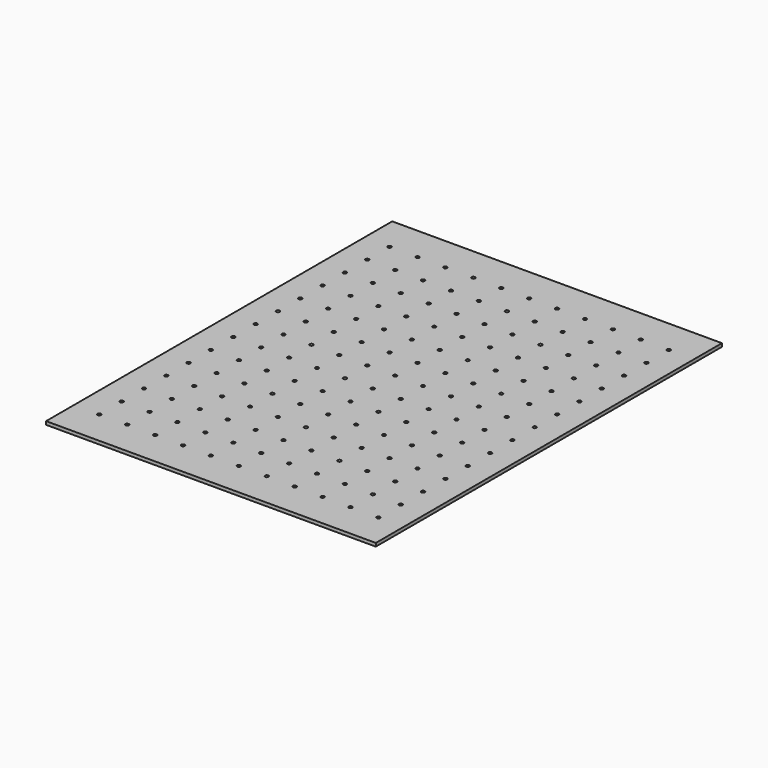
from build123d import *

# Parameters (mm, degrees)
SKETCH_W      = 600.075
SKETCH_H      = 787.4
SKETCH_R      = 3.175
EXTRUDE_DEPTH = 5.9944


with BuildPart() as part:
    # Sketch → Extrude (new body)
    with BuildSketch(Plane.XY):
        with Locations((300.0375, -393.7)):
            Rectangle(SKETCH_W, SKETCH_H)
        with Locations((46.0502, -63.5)):
            Circle(SKETCH_R, mode=Mode.SUBTRACT)
        with Locations((96.8502, -63.5)):
            Circle(SKETCH_R, mode=Mode.SUBTRACT)
        with Locations((147.6502, -63.5)):
            Circle(SKETCH_R, mode=Mode.SUBTRACT)
        with Locations((198.4502, -63.5)):
            Circle(SKETCH_R, mode=Mode.SUBTRACT)
        with Locations((249.2502, -63.5)):
            Circle(SKETCH_R, mode=Mode.SUBTRACT)
        with Locations((300.0502, -63.5)):
            Circle(SKETCH_R, mode=Mode.SUBTRACT)
        with Locations((350.8502, -63.5)):
            Circle(SKETCH_R, mode=Mode.SUBTRACT)
        with Locations((401.6502, -63.5)):
            Circle(SKETCH_R, mode=Mode.SUBTRACT)
        with Locations((452.4502, -63.5)):
            Circle(SKETCH_R, mode=Mode.SUBTRACT)
        with Locations((503.2502, -63.5)):
            Circle(SKETCH_R, mode=Mode.SUBTRACT)
        with Locations((554.0502, -63.5)):
            Circle(SKETCH_R, mode=Mode.SUBTRACT)
        with Locations((46.0502, -114.3)):
            Circle(SKETCH_R, mode=Mode.SUBTRACT)
        with Locations((96.8502, -114.3)):
            Circle(SKETCH_R, mode=Mode.SUBTRACT)
        with Locations((147.6502, -114.3)):
            Circle(SKETCH_R, mode=Mode.SUBTRACT)
        with Locations((198.4502, -114.3)):
            Circle(SKETCH_R, mode=Mode.SUBTRACT)
        with Locations((249.2502, -114.3)):
            Circle(SKETCH_R, mode=Mode.SUBTRACT)
        with Locations((300.0502, -114.3)):
            Circle(SKETCH_R, mode=Mode.SUBTRACT)
        with Locations((350.8502, -114.3)):
            Circle(SKETCH_R, mode=Mode.SUBTRACT)
        with Locations((401.6502, -114.3)):
            Circle(SKETCH_R, mode=Mode.SUBTRACT)
        with Locations((452.4502, -114.3)):
            Circle(SKETCH_R, mode=Mode.SUBTRACT)
        with Locations((503.2502, -114.3)):
            Circle(SKETCH_R, mode=Mode.SUBTRACT)
        with Locations((554.0502, -114.3)):
            Circle(SKETCH_R, mode=Mode.SUBTRACT)
        with Locations((46.0502, -165.1)):
            Circle(SKETCH_R, mode=Mode.SUBTRACT)
        with Locations((96.8502, -165.1)):
            Circle(SKETCH_R, mode=Mode.SUBTRACT)
        with Locations((147.6502, -165.1)):
            Circle(SKETCH_R, mode=Mode.SUBTRACT)
        with Locations((198.4502, -165.1)):
            Circle(SKETCH_R, mode=Mode.SUBTRACT)
        with Locations((249.2502, -165.1)):
            Circle(SKETCH_R, mode=Mode.SUBTRACT)
        with Locations((300.0502, -165.1)):
            Circle(SKETCH_R, mode=Mode.SUBTRACT)
        with Locations((350.8502, -165.1)):
            Circle(SKETCH_R, mode=Mode.SUBTRACT)
        with Locations((401.6502, -165.1)):
            Circle(SKETCH_R, mode=Mode.SUBTRACT)
        with Locations((452.4502, -165.1)):
            Circle(SKETCH_R, mode=Mode.SUBTRACT)
        with Locations((503.2502, -165.1)):
            Circle(SKETCH_R, mode=Mode.SUBTRACT)
        with Locations((554.0502, -165.1)):
            Circle(SKETCH_R, mode=Mode.SUBTRACT)
        with Locations((46.0502, -215.9)):
            Circle(SKETCH_R, mode=Mode.SUBTRACT)
        with Locations((96.8502, -215.9)):
            Circle(SKETCH_R, mode=Mode.SUBTRACT)
        with Locations((147.6502, -215.9)):
            Circle(SKETCH_R, mode=Mode.SUBTRACT)
        with Locations((198.4502, -215.9)):
            Circle(SKETCH_R, mode=Mode.SUBTRACT)
        with Locations((249.2502, -215.9)):
            Circle(SKETCH_R, mode=Mode.SUBTRACT)
        with Locations((300.0502, -215.9)):
            Circle(SKETCH_R, mode=Mode.SUBTRACT)
        with Locations((350.8502, -215.9)):
            Circle(SKETCH_R, mode=Mode.SUBTRACT)
        with Locations((401.6502, -215.9)):
            Circle(SKETCH_R, mode=Mode.SUBTRACT)
        with Locations((452.4502, -215.9)):
            Circle(SKETCH_R, mode=Mode.SUBTRACT)
        with Locations((503.2502, -215.9)):
            Circle(SKETCH_R, mode=Mode.SUBTRACT)
        with Locations((554.0502, -215.9)):
            Circle(SKETCH_R, mode=Mode.SUBTRACT)
        with Locations((46.0502, -266.7)):
            Circle(SKETCH_R, mode=Mode.SUBTRACT)
        with Locations((96.8502, -266.7)):
            Circle(SKETCH_R, mode=Mode.SUBTRACT)
        with Locations((147.6502, -266.7)):
            Circle(SKETCH_R, mode=Mode.SUBTRACT)
        with Locations((198.4502, -266.7)):
            Circle(SKETCH_R, mode=Mode.SUBTRACT)
        with Locations((249.2502, -266.7)):
            Circle(SKETCH_R, mode=Mode.SUBTRACT)
        with Locations((300.0502, -266.7)):
            Circle(SKETCH_R, mode=Mode.SUBTRACT)
        with Locations((350.8502, -266.7)):
            Circle(SKETCH_R, mode=Mode.SUBTRACT)
        with Locations((401.6502, -266.7)):
            Circle(SKETCH_R, mode=Mode.SUBTRACT)
        with Locations((452.4502, -266.7)):
            Circle(SKETCH_R, mode=Mode.SUBTRACT)
        with Locations((503.2502, -266.7)):
            Circle(SKETCH_R, mode=Mode.SUBTRACT)
        with Locations((554.0502, -266.7)):
            Circle(SKETCH_R, mode=Mode.SUBTRACT)
        with Locations((46.0502, -317.5)):
            Circle(SKETCH_R, mode=Mode.SUBTRACT)
        with Locations((96.8502, -317.5)):
            Circle(SKETCH_R, mode=Mode.SUBTRACT)
        with Locations((147.6502, -317.5)):
            Circle(SKETCH_R, mode=Mode.SUBTRACT)
        with Locations((198.4502, -317.5)):
            Circle(SKETCH_R, mode=Mode.SUBTRACT)
        with Locations((249.2502, -317.5)):
            Circle(SKETCH_R, mode=Mode.SUBTRACT)
        with Locations((300.0502, -317.5)):
            Circle(SKETCH_R, mode=Mode.SUBTRACT)
        with Locations((350.8502, -317.5)):
            Circle(SKETCH_R, mode=Mode.SUBTRACT)
        with Locations((401.6502, -317.5)):
            Circle(SKETCH_R, mode=Mode.SUBTRACT)
        with Locations((452.4502, -317.5)):
            Circle(SKETCH_R, mode=Mode.SUBTRACT)
        with Locations((503.2502, -317.5)):
            Circle(SKETCH_R, mode=Mode.SUBTRACT)
        with Locations((554.0502, -317.5)):
            Circle(SKETCH_R, mode=Mode.SUBTRACT)
        with Locations((46.0502, -368.3)):
            Circle(SKETCH_R, mode=Mode.SUBTRACT)
        with Locations((96.8502, -368.3)):
            Circle(SKETCH_R, mode=Mode.SUBTRACT)
        with Locations((147.6502, -368.3)):
            Circle(SKETCH_R, mode=Mode.SUBTRACT)
        with Locations((198.4502, -368.3)):
            Circle(SKETCH_R, mode=Mode.SUBTRACT)
        with Locations((249.2502, -368.3)):
            Circle(SKETCH_R, mode=Mode.SUBTRACT)
        with Locations((300.0502, -368.3)):
            Circle(SKETCH_R, mode=Mode.SUBTRACT)
        with Locations((350.8502, -368.3)):
            Circle(SKETCH_R, mode=Mode.SUBTRACT)
        with Locations((401.6502, -368.3)):
            Circle(SKETCH_R, mode=Mode.SUBTRACT)
        with Locations((452.4502, -368.3)):
            Circle(SKETCH_R, mode=Mode.SUBTRACT)
        with Locations((503.2502, -368.3)):
            Circle(SKETCH_R, mode=Mode.SUBTRACT)
        with Locations((554.0502, -368.3)):
            Circle(SKETCH_R, mode=Mode.SUBTRACT)
        with Locations((46.0502, -419.1)):
            Circle(SKETCH_R, mode=Mode.SUBTRACT)
        with Locations((96.8502, -419.1)):
            Circle(SKETCH_R, mode=Mode.SUBTRACT)
        with Locations((147.6502, -419.1)):
            Circle(SKETCH_R, mode=Mode.SUBTRACT)
        with Locations((198.4502, -419.1)):
            Circle(SKETCH_R, mode=Mode.SUBTRACT)
        with Locations((249.2502, -419.1)):
            Circle(SKETCH_R, mode=Mode.SUBTRACT)
        with Locations((300.0502, -419.1)):
            Circle(SKETCH_R, mode=Mode.SUBTRACT)
        with Locations((350.8502, -419.1)):
            Circle(SKETCH_R, mode=Mode.SUBTRACT)
        with Locations((401.6502, -419.1)):
            Circle(SKETCH_R, mode=Mode.SUBTRACT)
        with Locations((452.4502, -419.1)):
            Circle(SKETCH_R, mode=Mode.SUBTRACT)
        with Locations((503.2502, -419.1)):
            Circle(SKETCH_R, mode=Mode.SUBTRACT)
        with Locations((554.0502, -419.1)):
            Circle(SKETCH_R, mode=Mode.SUBTRACT)
        with Locations((46.0502, -469.9)):
            Circle(SKETCH_R, mode=Mode.SUBTRACT)
        with Locations((96.8502, -469.9)):
            Circle(SKETCH_R, mode=Mode.SUBTRACT)
        with Locations((147.6502, -469.9)):
            Circle(SKETCH_R, mode=Mode.SUBTRACT)
        with Locations((198.4502, -469.9)):
            Circle(SKETCH_R, mode=Mode.SUBTRACT)
        with Locations((249.2502, -469.9)):
            Circle(SKETCH_R, mode=Mode.SUBTRACT)
        with Locations((300.0502, -469.9)):
            Circle(SKETCH_R, mode=Mode.SUBTRACT)
        with Locations((350.8502, -469.9)):
            Circle(SKETCH_R, mode=Mode.SUBTRACT)
        with Locations((401.6502, -469.9)):
            Circle(SKETCH_R, mode=Mode.SUBTRACT)
        with Locations((452.4502, -469.9)):
            Circle(SKETCH_R, mode=Mode.SUBTRACT)
        with Locations((503.2502, -469.9)):
            Circle(SKETCH_R, mode=Mode.SUBTRACT)
        with Locations((554.0502, -469.9)):
            Circle(SKETCH_R, mode=Mode.SUBTRACT)
        with Locations((46.0502, -520.7)):
            Circle(SKETCH_R, mode=Mode.SUBTRACT)
        with Locations((96.8502, -520.7)):
            Circle(SKETCH_R, mode=Mode.SUBTRACT)
        with Locations((147.6502, -520.7)):
            Circle(SKETCH_R, mode=Mode.SUBTRACT)
        with Locations((198.4502, -520.7)):
            Circle(SKETCH_R, mode=Mode.SUBTRACT)
        with Locations((249.2502, -520.7)):
            Circle(SKETCH_R, mode=Mode.SUBTRACT)
        with Locations((300.0502, -520.7)):
            Circle(SKETCH_R, mode=Mode.SUBTRACT)
        with Locations((350.8502, -520.7)):
            Circle(SKETCH_R, mode=Mode.SUBTRACT)
        with Locations((401.6502, -520.7)):
            Circle(SKETCH_R, mode=Mode.SUBTRACT)
        with Locations((452.4502, -520.7)):
            Circle(SKETCH_R, mode=Mode.SUBTRACT)
        with Locations((503.2502, -520.7)):
            Circle(SKETCH_R, mode=Mode.SUBTRACT)
        with Locations((554.0502, -520.7)):
            Circle(SKETCH_R, mode=Mode.SUBTRACT)
        with Locations((46.0502, -571.5)):
            Circle(SKETCH_R, mode=Mode.SUBTRACT)
        with Locations((96.8502, -571.5)):
            Circle(SKETCH_R, mode=Mode.SUBTRACT)
        with Locations((147.6502, -571.5)):
            Circle(SKETCH_R, mode=Mode.SUBTRACT)
        with Locations((198.4502, -571.5)):
            Circle(SKETCH_R, mode=Mode.SUBTRACT)
        with Locations((249.2502, -571.5)):
            Circle(SKETCH_R, mode=Mode.SUBTRACT)
        with Locations((300.0502, -571.5)):
            Circle(SKETCH_R, mode=Mode.SUBTRACT)
        with Locations((350.8502, -571.5)):
            Circle(SKETCH_R, mode=Mode.SUBTRACT)
        with Locations((401.6502, -571.5)):
            Circle(SKETCH_R, mode=Mode.SUBTRACT)
        with Locations((452.4502, -571.5)):
            Circle(SKETCH_R, mode=Mode.SUBTRACT)
        with Locations((503.2502, -571.5)):
            Circle(SKETCH_R, mode=Mode.SUBTRACT)
        with Locations((554.0502, -571.5)):
            Circle(SKETCH_R, mode=Mode.SUBTRACT)
        with Locations((46.0502, -622.3)):
            Circle(SKETCH_R, mode=Mode.SUBTRACT)
        with Locations((96.8502, -622.3)):
            Circle(SKETCH_R, mode=Mode.SUBTRACT)
        with Locations((147.6502, -622.3)):
            Circle(SKETCH_R, mode=Mode.SUBTRACT)
        with Locations((198.4502, -622.3)):
            Circle(SKETCH_R, mode=Mode.SUBTRACT)
        with Locations((249.2502, -622.3)):
            Circle(SKETCH_R, mode=Mode.SUBTRACT)
        with Locations((300.0502, -622.3)):
            Circle(SKETCH_R, mode=Mode.SUBTRACT)
        with Locations((350.8502, -622.3)):
            Circle(SKETCH_R, mode=Mode.SUBTRACT)
        with Locations((401.6502, -622.3)):
            Circle(SKETCH_R, mode=Mode.SUBTRACT)
        with Locations((452.4502, -622.3)):
            Circle(SKETCH_R, mode=Mode.SUBTRACT)
        with Locations((503.2502, -622.3)):
            Circle(SKETCH_R, mode=Mode.SUBTRACT)
        with Locations((554.0502, -622.3)):
            Circle(SKETCH_R, mode=Mode.SUBTRACT)
        with Locations((46.0502, -673.1)):
            Circle(SKETCH_R, mode=Mode.SUBTRACT)
        with Locations((96.8502, -673.1)):
            Circle(SKETCH_R, mode=Mode.SUBTRACT)
        with Locations((147.6502, -673.1)):
            Circle(SKETCH_R, mode=Mode.SUBTRACT)
        with Locations((198.4502, -673.1)):
            Circle(SKETCH_R, mode=Mode.SUBTRACT)
        with Locations((249.2502, -673.1)):
            Circle(SKETCH_R, mode=Mode.SUBTRACT)
        with Locations((300.0502, -673.1)):
            Circle(SKETCH_R, mode=Mode.SUBTRACT)
        with Locations((350.8502, -673.1)):
            Circle(SKETCH_R, mode=Mode.SUBTRACT)
        with Locations((401.6502, -673.1)):
            Circle(SKETCH_R, mode=Mode.SUBTRACT)
        with Locations((452.4502, -673.1)):
            Circle(SKETCH_R, mode=Mode.SUBTRACT)
        with Locations((503.2502, -673.1)):
            Circle(SKETCH_R, mode=Mode.SUBTRACT)
        with Locations((554.0502, -673.1)):
            Circle(SKETCH_R, mode=Mode.SUBTRACT)
        with Locations((46.0502, -723.9)):
            Circle(SKETCH_R, mode=Mode.SUBTRACT)
        with Locations((96.8502, -723.9)):
            Circle(SKETCH_R, mode=Mode.SUBTRACT)
        with Locations((147.6502, -723.9)):
            Circle(SKETCH_R, mode=Mode.SUBTRACT)
        with Locations((198.4502, -723.9)):
            Circle(SKETCH_R, mode=Mode.SUBTRACT)
        with Locations((249.2502, -723.9)):
            Circle(SKETCH_R, mode=Mode.SUBTRACT)
        with Locations((300.0502, -723.9)):
            Circle(SKETCH_R, mode=Mode.SUBTRACT)
        with Locations((350.8502, -723.9)):
            Circle(SKETCH_R, mode=Mode.SUBTRACT)
        with Locations((401.6502, -723.9)):
            Circle(SKETCH_R, mode=Mode.SUBTRACT)
        with Locations((452.4502, -723.9)):
            Circle(SKETCH_R, mode=Mode.SUBTRACT)
        with Locations((503.2502, -723.9)):
            Circle(SKETCH_R, mode=Mode.SUBTRACT)
        with Locations((554.0502, -723.9)):
            Circle(SKETCH_R, mode=Mode.SUBTRACT)
    extrude(amount=EXTRUDE_DEPTH)


solid = part.part
